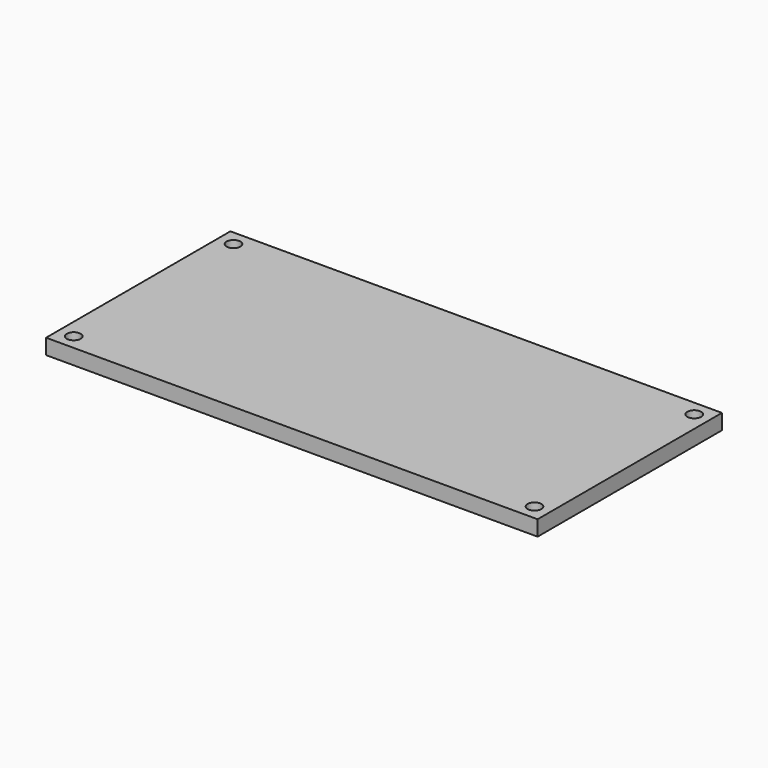
from build123d import *

# Parameters (mm, degrees)
SKETCH_W       = 160
SKETCH_H       = 75
PAD_DEPTH      = 5
SKETCH001_R    = 2.25
HOLE_DEPTH     = 5.001
SKETCH002_R    = 1.25
HOLE001_DEPTH  = 25
HOLE001_TIPS_R = 1.25


with BuildPart() as part:
    # Sketch → Pad (new body)
    with BuildSketch(Plane.XY):
        Rectangle(SKETCH_W, SKETCH_H)
    extrude(amount=PAD_DEPTH)

    # Sketch001 (on Face5 of Pad) → Hole (cut, through all)
    with BuildSketch(Plane(origin=(0, 0, 0), x_dir=(1, 0, 0), z_dir=(0, 0, -1))):
        with Locations((-75, 32.5)):
            Circle(SKETCH001_R)
        with Locations((75, 32.5)):
            Circle(SKETCH001_R)
        with Locations((75, -32.5)):
            Circle(SKETCH001_R)
        with Locations((-75, -32.5)):
            Circle(SKETCH001_R)
    extrude(amount=-HOLE_DEPTH, mode=Mode.SUBTRACT)

    # Sketch002 (on Face1 of Hole) → Hole001 (cut)
    with BuildSketch(Plane(origin=(0, 37.5, 0), x_dir=(-1, 0, 0), z_dir=(0, 1, 0))):
        with Locations((-47.5, 2.5)):
            Circle(SKETCH002_R)
        with Locations((47.5, 2.5)):
            Circle(SKETCH002_R)
    extrude(amount=-HOLE001_DEPTH, mode=Mode.SUBTRACT)

    # Hole001 tips → Hole001 tip 1 section 0
    with BuildSketch(Plane(origin=(0, 12.5, 0), x_dir=(-1, 0, 0), z_dir=(0, 1, 0)), mode=Mode.PRIVATE) as hole001_tip_1_s0:
        with Locations((-47.5, 2.5)):
            Circle(HOLE001_TIPS_R)
    loft([hole001_tip_1_s0.sketch, Vertex(47.5, 11.748924, 2.5)], mode=Mode.SUBTRACT)

    # Hole001 tips → Hole001 tip 2 section 0
    with BuildSketch(Plane(origin=(0, 12.5, 0), x_dir=(-1, 0, 0), z_dir=(0, 1, 0)), mode=Mode.PRIVATE) as hole001_tip_2_s0:
        with Locations((47.5, 2.5)):
            Circle(HOLE001_TIPS_R)
    loft([hole001_tip_2_s0.sketch, Vertex(-47.5, 11.748924, 2.5)], mode=Mode.SUBTRACT)


solid = part.part
